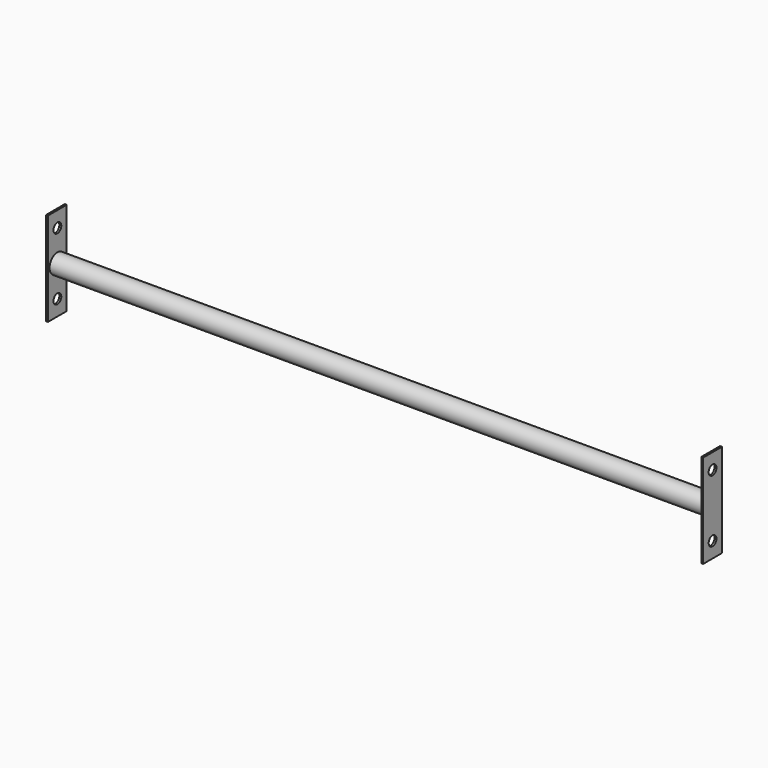
from build123d import *

# Parameters (mm, degrees)
F0_R     = 15.875
F1_DEPTH = 1069.975
F2_W     = 38.1
F2_H     = 152.4
F3_DEPTH = 3.175
F5_D     = 15.875
F6_W     = 38.1
F6_H     = 152.4
F7_DEPTH = 3.175
F9_D     = 15.875


with BuildPart() as f1:
    # F0 (on Right) → F1 (new body)
    with BuildSketch(Plane.YZ):
        Circle(F0_R)
    extrude(amount=F1_DEPTH)

    # F2 (on Right) → F3 (join)
    with BuildSketch(Plane.YZ):
        Rectangle(F2_W, F2_H)
    extrude(amount=F3_DEPTH)

    # F5 (through all)
    with Locations(Plane.YZ.offset(1069.975)):
        with Locations((0, 50.8), (0, -50.8)):
            Hole(F5_D / 2)

    # F6 (on face) → F7 (join)
    with BuildSketch(Plane.YZ.offset(1069.975)):
        Rectangle(F6_W, F6_H)
    extrude(amount=-F7_DEPTH)

    # F9 (through all)
    with Locations(Plane(origin=(0, 0, 0), x_dir=(0, -1, 0), z_dir=(-1, 0, 0))):
        with Locations((0, 50.8), (0, -50.8)):
            Hole(F9_D / 2)


solid = f1.part
